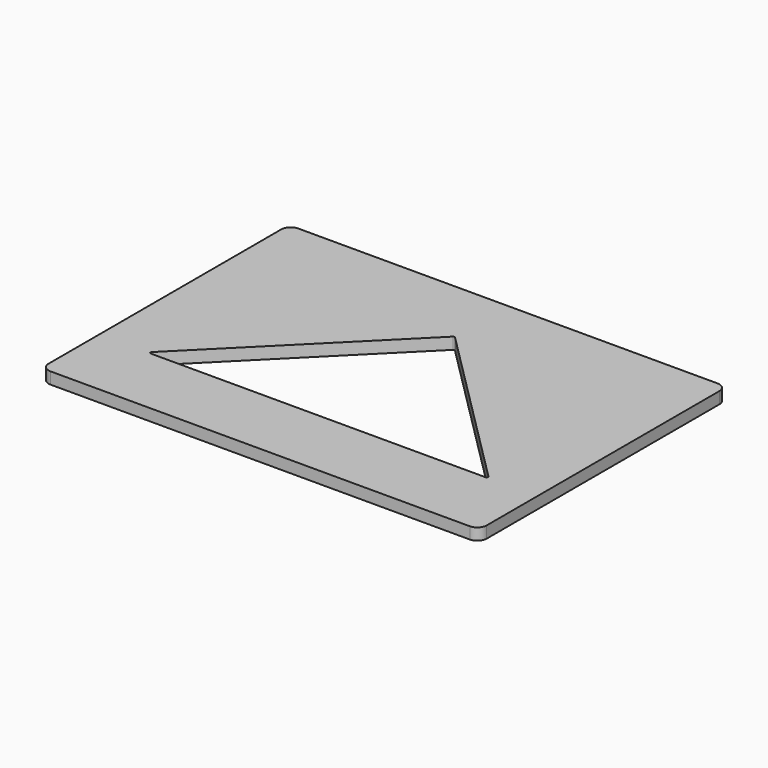
from build123d import *

# Parameters (mm, degrees)
F1_DEPTH = 6.35
F3_DEPTH = 6.351
F5_DEPTH = 6.351


with BuildPart() as f1:
    # F0 (on Top) → F1 (new body)
    with BuildSketch(Plane.XY):
        with BuildLine():
            Line((113.9825, 84.1375), (-113.9825, 84.1375))
            ThreePointArc((-113.9825, 84.1375), (-117.574602, 82.649602), (-119.0625, 79.0575))
            Line((-119.0625, 79.0575), (-119.0625, -79.0575))
            ThreePointArc((-119.0625, -79.0575), (-117.574602, -82.649602), (-113.9825, -84.1375))
            Line((-113.9825, -84.1375), (113.9825, -84.1375))
            ThreePointArc((113.9825, -84.1375), (117.574602, -82.649602), (119.0625, -79.0575))
            Line((119.0625, -79.0575), (119.0625, 79.0575))
            ThreePointArc((119.0625, 79.0575), (117.574602, 82.649602), (113.9825, 84.1375))
        make_face()
    extrude(amount=F1_DEPTH)

    # F2 (on face) → F3 (cut, through all)
    with BuildSketch(Plane.XY.offset(6.35)):
        Polygon((0, 46.305061), (-89.802561, -43.4975), (89.802561, -43.4975), align=None)
    extrude(amount=-F3_DEPTH, mode=Mode.SUBTRACT)

    # F4 (on face) → F5 (cut, through all)
    with BuildSketch(Plane.XY.offset(6.35)):
        with BuildLine():
            ThreePointArc((0.556776, 47.544337), (0, 47.774961), (-0.556776, 47.544337))
            Line((-0.556776, 47.544337), (-91.524437, -43.423324))
            ThreePointArc((-91.524437, -43.423324), (-91.695123, -44.281425), (-90.967661, -44.7675))
            Line((-90.967661, -44.7675), (90.967661, -44.7675))
            ThreePointArc((90.967661, -44.7675), (91.695123, -44.281425), (91.524437, -43.423324))
            Line((91.524437, -43.423324), (0.556776, 47.544337))
        make_face()
    extrude(amount=-F5_DEPTH, mode=Mode.SUBTRACT)


solid = f1.part
